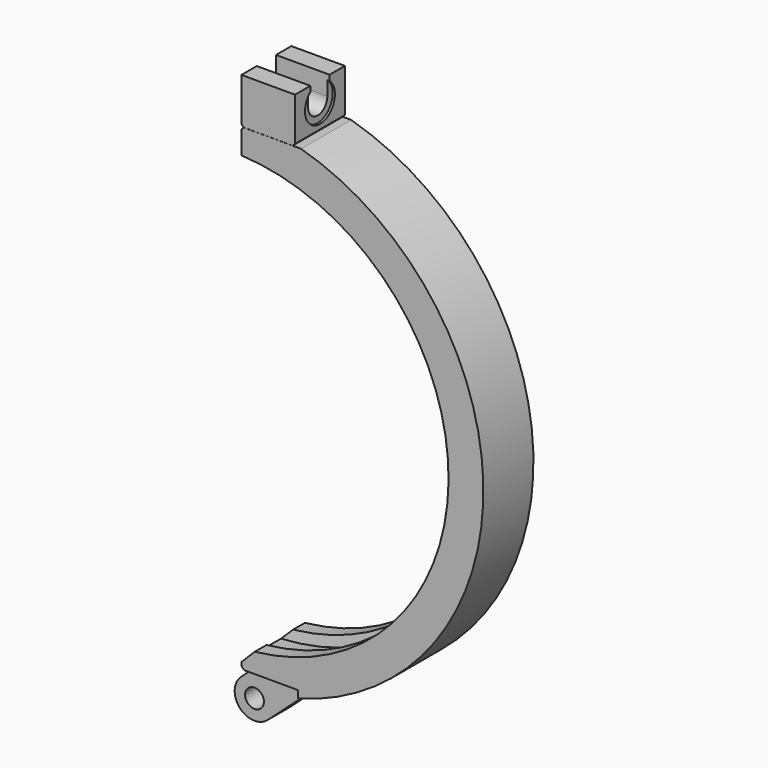
from build123d import *

# Parameters (mm, degrees)
F1_DEPTH  = 70.104
F4_W      = 165.1078228589
F4_H      = 35.960230231
F4_W_2    = 99.9321753113
F4_H_2    = 46.1589694023
F5_DEPTH  = 70.1050001
F6_W      = 69.85
F6_H      = 51.054
F7_DEPTH  = 59.944
F9_DEPTH  = 270.9809
F10_R     = 20.955
F11_DEPTH = 2.54
F13_R     = 10.541
F14_DEPTH = 15.24
F16_DEPTH = 70.1050001
F17_SIZE  = 2.54
F18_R     = 3.175
F19_SIZE  = 3.175
F20_SIZE  = 3.175
F21_SIZE  = 2.54


with BuildPart() as f1:
    # F0 (on Front) → F1 (new body)
    with BuildSketch(Plane.XZ):
        with BuildLine():
            Line((11.0236, -242.7516324276), (11.0236, -281.7879597415))
            ThreePointArc((11.0236, -281.7879597415), (282.0035, 0), (11.0236, 281.7879597415))
            Line((11.0236, 281.7879597415), (11.0236, 242.7516324276))
            ThreePointArc((11.0236, 242.7516324276), (243.0018, 0), (11.0236, -242.7516324276))
        make_face()
    extrude(amount=F1_DEPTH)

    # F2 (on face) → F3 (revolve, cut)
    with BuildSketch(Plane(origin=(11.0236, 0, 0), x_dir=(0, -1, 0), z_dir=(-1, 0, 0))):
        Polygon((18.52295, 253.6825), (16.3982045821, 242.7516324276), (53.7057954179, 242.7516324276), (51.58105, 253.6825), align=None)
    revolve(axis=Axis((0, -70.104, 0), (0, 1, 0)), mode=Mode.SUBTRACT)

    # F4 (on face) → F5 (cut, through all)
    with BuildSketch(Plane.XZ.offset(70.104)):
        with Locations((47.3792366683, 288.9981151155)):
            Rectangle(F4_W, F4_H)
        with Locations((24.5575123443, -286.7314847012)):
            Rectangle(F4_W_2, F4_H_2)
    extrude(amount=-F5_DEPTH, mode=Mode.SUBTRACT)

    # F15 (on face) → F16 (cut, through all)
    with BuildSketch(Plane.XZ.offset(70.104)):
        with BuildLine():
            Line((11.0236, -242.7516324276), (11.0236, -256.5918267325))
            Line((11.0236, -256.5918267325), (26.0096, -241.6058267325))
            ThreePointArc((26.0096, -241.6058267325), (18.5254606753, -242.2946184091), (11.0236, -242.7516324276))
        make_face()
    extrude(amount=-F16_DEPTH, mode=Mode.SUBTRACT)

    # F20
    f20_edges = [f1.edges().sort_by_distance(p)[0] for p in [
        (11.0236, -35.052, -263.652),
    ]]
    chamfer(f20_edges, length=F20_SIZE)

    # F21
    f21_edges = [f1.edges().sort_by_distance(p)[0] for p in [
        (11.0236, -35.052, 271.018),
    ]]
    chamfer(f21_edges, length=F21_SIZE)


with BuildPart() as f7:
    # F6 (on face) → F7 (new body)
    with BuildSketch(Plane(origin=(11.0236, 0, 0), x_dir=(0, -1, 0), z_dir=(-1, 0, 0))):
        with Locations((35.052, 296.545)):
            Rectangle(F6_W, F6_H)
    extrude(amount=-F7_DEPTH)

    # F8 (on face) → F9 (cut, through all)
    with BuildSketch(Plane(origin=(11.0236, 0, 0), x_dir=(0, -1, 0), z_dir=(-1, 0, 0))):
        with BuildLine():
            Line((21.59, 322.072), (21.59, 299.974))
            ThreePointArc((21.59, 299.974), (35.052, 286.512), (48.514, 299.974))
            Line((48.514, 299.974), (48.514, 322.072))
            Line((48.514, 322.072), (21.59, 322.072))
        make_face()
    extrude(amount=-F9_DEPTH, mode=Mode.SUBTRACT)

    # F10 (on face) → F11 (cut)
    with BuildSketch(Plane.YZ.offset(70.9676)):
        with Locations((-35.052, 299.974)):
            Circle(F10_R)
    extrude(amount=-F11_DEPTH, mode=Mode.SUBTRACT)

    # F17
    f17_edges = [f7.edges().sort_by_distance(p)[0] for p in [
        (70.9676, -35.052, 271.018),
        (11.0236, -35.052, 271.018),
    ]]
    chamfer(f17_edges, length=F17_SIZE)


with BuildPart() as f14:
    # F13 (on offset) → F14 (new body, symmetric)
    with BuildSketch(Plane.XZ.offset(35.052)):
        with BuildLine():
            Line((24.7774277263, -317.2523937462), (74.5236, -272.4607390427))
            Line((74.5236, -272.4607390427), (74.5236, -263.652))
            Line((74.5236, -263.652), (10.82482371, -263.652))
            Line((10.82482371, -263.652), (10.82482371, -270.002))
            Line((10.82482371, -270.002), (-4.9654277263, -284.2196062538))
            ThreePointArc((-4.9654277263, -284.2196062538), (-6.6103937462, -315.6074277263), (24.7774277263, -317.2523937462))
        make_face()
        with Locations((9.906, -300.736)):
            Circle(F13_R, mode=Mode.SUBTRACT)
    extrude(amount=F14_DEPTH, both=True)

    # F18
    f18_edges = [f14.edges().sort_by_distance(p)[0] for p in [
        (74.5236, -35.052, -263.652),
    ]]
    fillet(f18_edges, radius=F18_R)

    # F19
    f19_edges = [f14.edges().sort_by_distance(p)[0] for p in [
        (10.824824, -35.052, -263.652),
    ]]
    chamfer(f19_edges, length=F19_SIZE)


solid = Compound([f1.part, f7.part, f14.part])
